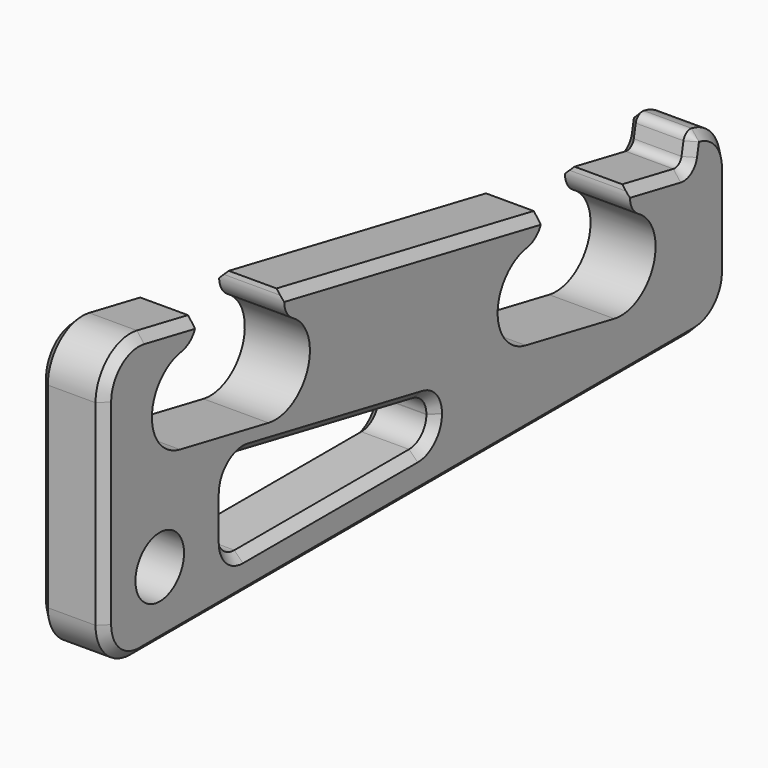
from build123d import *

# Parameters (mm, degrees)
SKETCH_R        = 7
PAD_DEPTH       = 15
CHAMFER_SIZE    = 2
SKETCH003_W     = 150
SKETCH003_H     = 8
POCKET001_DEPTH = 0.75
POCKET002_DEPTH = 15.001
POCKET003_DEPTH = 15.001
CHAMFER002_SIZE = 2


with BuildPart() as part:
    # Sketch → Pad (new body)
    with BuildSketch(Plane.YZ):
        with BuildLine():
            Line((0, 10), (0, 55.1837281655))
            ThreePointArc((11.9080899538, 65), (3.6392177972, 62.8999739994), (0, 55.1837281655))
            Line((11.9080899538, 65), (166.5070947684, 34.9489976518))
            ThreePointArc((166.5070947684, 34.9489976518), (168.0070985661, 35.2541768735), (168.851967126, 36.5306340279))
            Line((169.4243941122, 39.4755155782), (168.851967126, 36.5306340279))
            ThreePointArc((171.7345605988, 41.063580806), (170.2546752416, 40.7420394634), (169.4243941122, 39.4755155782))
            ThreePointArc((180, 31.2151647136), (177.6598174256, 37.6437879725), (171.7345605988, 41.063580806))
            Line((180, 31.2151647136), (180, 10))
            ThreePointArc((170, 0), (177.0710678119, 2.9289321881), (180, 10))
            Line((170, 0), (10, 0))
            ThreePointArc((0, 10), (2.9289321881, 2.9289321881), (10, 0))
        make_face()
        with Locations((16, 16)):
            Circle(SKETCH_R, mode=Mode.SUBTRACT)
    extrude(amount=PAD_DEPTH)

    # Chamfer
    chamfer_edges = [part.edges().sort_by_distance(p)[0] for p in [
        (15, 90, 0),
        (0, 90, 0),
    ]]
    chamfer(chamfer_edges, length=CHAMFER_SIZE)

    # Sketch003 (on Face1 of Pad) → Pocket001 (cut)
    with BuildSketch(Plane.YX):
        with Locations((90, 7.5)):
            Rectangle(SKETCH003_W, SKETCH003_H)
    extrude(amount=-POCKET001_DEPTH, mode=Mode.SUBTRACT)

    # Sketch004 (on Face14 of Pad) → Pocket002 (cut, through all)
    with BuildSketch(Plane.YZ.offset(15)):
        with BuildLine():
            Line((21.8351520655, 37.4576612912), (47.3574588351, 32.4966274114))
            ThreePointArc((47.3574588351, 32.4966274114), (58.6177903834, 38.7723375448), (54.336603861, 50.9317391014))
            ThreePointArc((51.9639954797, 56.1952040061), (52.3138370776, 53.1864198979), (54.336603861, 50.9317391014))
            Line((51.9639954797, 56.1952040061), (52.1548044751, 57.1768311896))
            Line((52.1548044751, 57.1768311896), (26.6324977055, 62.1378650694))
            Line((26.6324977055, 62.1378650694), (26.4416887101, 61.1562378859))
            ThreePointArc((22.2701158683, 57.1648329504), (24.9902108638, 58.4975948081), (26.4416887101, 61.1562378859))
            ThreePointArc((22.2701158683, 57.1648329504), (13.7456768513, 47.4945928448), (21.8351520655, 37.4576612912))
        make_face()
        with BuildLine():
            Line((121.463034607, 18.091962684), (146.9853413767, 13.1309288042))
            ThreePointArc((146.9853413767, 13.1309288042), (158.2456729249, 19.4066389377), (153.9644864025, 31.5660404943))
            ThreePointArc((151.5918780213, 36.829505399), (151.9417196191, 33.8207212907), (153.9644864025, 31.5660404943))
            Line((151.5918780213, 36.829505399), (151.7826870167, 37.8111325824))
            Line((151.7826870167, 37.8111325824), (126.260380247, 42.7721664622))
            Line((126.260380247, 42.7721664622), (126.0695712516, 41.7905392787))
            ThreePointArc((121.8979984099, 37.7991343433), (124.6180934053, 39.1318962009), (126.0695712516, 41.7905392787))
            ThreePointArc((121.8979984099, 37.7991343433), (113.3735593928, 28.1288942377), (121.463034607, 18.091962684))
        make_face()
    extrude(amount=-POCKET002_DEPTH, mode=Mode.SUBTRACT)

    # Sketch005 (on Face14 of Pad) → Pocket003 (cut, through all)
    with BuildSketch(Plane.YZ.offset(15)):
        with BuildLine():
            Line((90.3363821208, 9), (40, 9))
            ThreePointArc((35, 14), (36.4644660941, 10.4644660941), (40, 9))
            Line((35, 14), (35, 23.8844015175))
            ThreePointArc((40.9540449769, 28.7925374348), (36.8196088986, 27.7425244345), (35, 23.8844015175))
            Line((40.9540449769, 28.7925374348), (91.2904270977, 19.0081359172))
            ThreePointArc((95.3363821208, 14.1), (94.1945050377, 17.2803911014), (91.2904270977, 19.0081359172))
            Line((95.3363821208, 14.1), (95.3363821208, 14))
            ThreePointArc((90.3363821208, 9), (93.8719160267, 10.4644660941), (95.3363821208, 14))
        make_face()
    extrude(amount=-POCKET003_DEPTH, mode=Mode.SUBTRACT)

    # Chamfer002
    chamfer002_edges = [part.edges().sort_by_distance(p)[0] for p in [
        (15, 66.122236, 23.900337),
        (0, 66.122236, 23.900337),
    ]]
    chamfer(chamfer002_edges, length=CHAMFER002_SIZE)


solid = part.part
